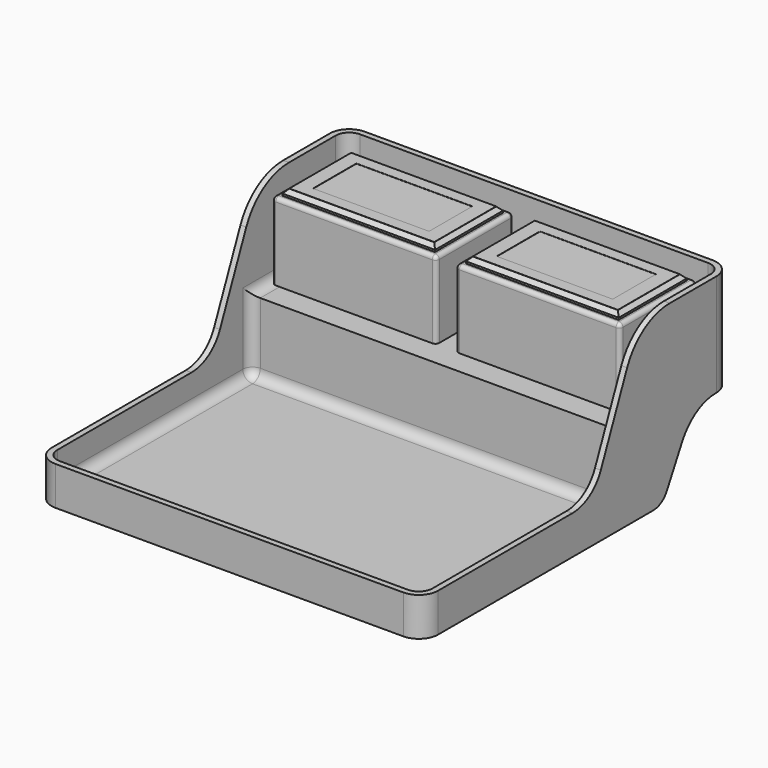
from build123d import *

# Parameters (mm, degrees)
F1_DEPTH   = 90
F3_DEPTH   = 80
F4_R       = 5
F7_DEPTH   = 50
F8_R       = 5
F12_DEPTH  = 37
F13_R      = 5
F16_DEPTH  = 105
F18_DEPTH  = 105
F20_W      = 85
F20_H      = 50
F21_DEPTH  = 40
F22_R      = 2
F22_2_R    = 2
F24_W      = 78.9999971262
F24_H      = 44
F25_DEPTH  = 3
F24_W_2    = 79
F26_SIZE   = 2
F26_2_SIZE = 2
F28_W      = 75
F28_H      = 40
F29_DEPTH  = 0.5
F30_W      = 60
F30_H      = 28
F31_DEPTH  = 1


with BuildPart() as f1:
    # F0 (on Top) → F1 (new body)
    with BuildSketch(Plane.XY):
        with BuildLine():
            Line((90, 100), (-90, 100))
            ThreePointArc((-90, 100), (-97.0710678119, 97.0710678119), (-100, 90))
            Line((-100, 90), (-100, -90))
            ThreePointArc((-100, -90), (-97.0710678119, -97.0710678119), (-90, -100))
            Line((-90, -100), (90, -100))
            ThreePointArc((90, -100), (97.0710678119, -97.0710678119), (100, -90))
            Line((100, -90), (100, 90))
            ThreePointArc((100, 90), (97.0710678119, 97.0710678119), (90, 100))
        make_face()
    extrude(amount=F1_DEPTH)


with BuildPart() as f3:
    # F2 (on Top) → F3 (new body)
    with BuildSketch(Plane.XY):
        with BuildLine():
            Line((97, 35), (-97, 35))
            Line((-97, 35), (-97, -90))
            ThreePointArc((-97, -90), (-94.9497474683, -94.9497474683), (-90, -97))
            Line((-90, -97), (90, -97))
            ThreePointArc((90, -97), (94.9497474683, -94.9497474683), (97, -90))
            Line((97, -90), (97, 35))
        make_face()
    extrude(amount=F3_DEPTH)

    # F4
    f4_edges = [f3.edges().sort_by_distance(p)[0] for p in [
        (-97, -27.5, 0),
        (-94.949747, -94.949747, 0),
        (0, -97, 0),
        (94.949747, -94.949747, 0),
        (97, -27.5, 0),
        (0, 35, 0),
        (-97, 35, 40),
        (97, 35, 40),
    ]]
    fillet(f4_edges, radius=F4_R)


with BuildPart() as f3_1:
    # F5: moved
    add(f3.part.moved(Location((0, 0, 3))))


with BuildPart() as f7:
    # F6 (on Top) → F7 (new body)
    with BuildSketch(Plane.XY):
        with BuildLine():
            Line((-97, 90), (-97, 30))
            Line((-97, 30), (97, 30))
            Line((97, 30), (97, 90))
            ThreePointArc((97, 90), (94.9497474683, 94.9497474683), (90, 97))
            Line((90, 97), (-90, 97))
            ThreePointArc((-90, 97), (-94.9497474683, 94.9497474683), (-97, 90))
        make_face()
    extrude(amount=F7_DEPTH)

    # F8
    f8_edges = [f7.edges().sort_by_distance(p)[0] for p in [
        (-97, 60, 0),
        (-94.949747, 94.949747, 0),
        (0, 97, 0),
        (94.949747, 94.949747, 0),
        (97, 60, 0),
    ]]
    fillet(f8_edges, radius=F8_R)


with BuildPart() as f7_1:
    # F9: moved
    add(f7.part.moved(Location((0, 0, 40))))


with BuildPart() as f1_1:
    add(f1.part)

    # F10: cut F7, F3
    add(f7_1.part, mode=Mode.SUBTRACT)
    add(f3_1.part, mode=Mode.SUBTRACT)


with BuildPart() as f12:
    # F11 (on Top) → F12 (new body)
    with BuildSketch(Plane.XY):
        with BuildLine():
            Line((97, 105), (-97, 105))
            Line((-97, 105), (-97, 48))
            ThreePointArc((-97, 48), (-95.5355339059, 44.4644660941), (-92, 43))
            Line((-92, 43), (92, 43))
            ThreePointArc((92, 43), (95.5355339059, 44.4644660941), (97, 48))
            Line((97, 48), (97, 105))
        make_face()
    extrude(amount=F12_DEPTH)

    # F13
    f13_edges = [f12.edges().sort_by_distance(p)[0] for p in [
        (0, 43, 37),
        (95.535534, 44.464466, 37),
        (97, 76.5, 37),
        (-95.535534, 44.464466, 37),
        (-97, 76.5, 37),
    ]]
    fillet(f13_edges, radius=F13_R)


with BuildPart() as f1_2:
    add(f1_1.part)

    # F14: cut F12
    add(f12.part, mode=Mode.SUBTRACT)


with BuildPart() as f16:
    # F15 (on Right) → F16 (new body, symmetric)
    with BuildSketch(Plane.YZ):
        with BuildLine():
            Line((105, -10), (105, 37))
            Line((105, 37), (89.9050551957, 37))
            ThreePointArc((89.9050551957, 37), (77.1026754653, 33.47321758), (67.9123923563, 23.8879258591))
            Line((67.9123923563, 23.8879258591), (57.8350430575, 5.2448296563))
            ThreePointArc((57.8350430575, 5.2448296563), (54.1589298139, 1.410712968), (49.0379779217, 0))
            Line((49.0379779217, 0), (25.0807348639, 0))
            Line((25.0807348639, 0), (25.0807348639, -10))
            Line((25.0807348639, -10), (105, -10))
        make_face()
    extrude(amount=F16_DEPTH, both=True)


with BuildPart() as f18:
    # F17 (on Right) → F18 (new body, symmetric)
    with BuildSketch(Plane.YZ):
        with BuildLine():
            Line((-105, 100), (-105, 20))
            Line((-105, 20), (-3.1879231596, 20))
            ThreePointArc((-3.1879231596, 20), (7.8218970153, 23.3031781552), (15.1949774408, 32.1216140284))
            Line((15.1949774407, 32.1216140284), (32.2075338389, 71.8175789574))
            ThreePointArc((32.2075338389, 71.8175789574), (43.267154477, 85.0452327671), (59.7818847394, 90))
            Line((59.7818847394, 90), (80, 90))
            Line((80, 90), (80, 100))
            Line((80, 100), (-105, 100))
        make_face()
    extrude(amount=F18_DEPTH, both=True)


with BuildPart() as f1_3:
    add(f1_2.part)

    # F19: cut F16, F18
    add(f16.part, mode=Mode.SUBTRACT)
    add(f18.part, mode=Mode.SUBTRACT)


with BuildPart() as f21:
    # F20 (on Top) → F21 (new body)
    with BuildSketch(Plane.XY):
        with Locations((-47.5, 65)):
            Rectangle(F20_W, F20_H)
    extrude(amount=F21_DEPTH)

    # F22
    f22_edges = [f21.edges().sort_by_distance(p)[0] for p in [
        (-90, 40, 20),
        (-5, 40, 20),
        (-90, 90, 20),
        (-5, 90, 20),
        (-47.5, 90, 40),
        (-90, 65, 40),
        (-5, 65, 40),
        (-47.5, 40, 40),
    ]]
    fillet(f22_edges, radius=F22_R)


with BuildPart() as f21b:
    # F20 (on Top) → F21, piece 2 (new body)
    with BuildSketch(Plane.XY):
        with Locations((47.5, 65)):
            Rectangle(F20_W, F20_H)
    extrude(amount=F21_DEPTH)

    # F22#2
    f22_2_edges = [f21b.edges().sort_by_distance(p)[0] for p in [
        (5, 40, 20),
        (90, 40, 20),
        (5, 90, 20),
        (90, 90, 20),
        (5, 65, 40),
        (90, 65, 40),
        (47.5, 40, 40),
        (47.5, 90, 40),
    ]]
    fillet(f22_2_edges, radius=F22_2_R)


with BuildPart() as f21_1:
    # F23: moved
    add(f21.part.moved(Location((0, 0, 45))))


with BuildPart() as f21b_1:
    # F23: moved
    add(f21b.part.moved(Location((0, 0, 45))))


with BuildPart() as f25:
    # F24 (on Top) → F25 (new body)
    with BuildSketch(Plane.XY):
        with Locations((47.4999985631, 65)):
            Rectangle(F24_W, F24_H)
    extrude(amount=F25_DEPTH)

    # F26#2
    f26_2_edges = [f25.edges().sort_by_distance(p)[0] for p in [
        (8, 65, 3),
        (47.499999, 87, 3),
        (47.499999, 43, 3),
        (86.999997, 65, 3),
    ]]
    chamfer(f26_2_edges, length=F26_2_SIZE)


with BuildPart() as f25b:
    # F24 (on Top) → F25, piece 2 (new body)
    with BuildSketch(Plane.XY):
        with Locations((-47.5, 65)):
            Rectangle(F24_W_2, F24_H)
    extrude(amount=F25_DEPTH)

    # F26
    f26_edges = [f25b.edges().sort_by_distance(p)[0] for p in [
        (-87, 65, 3),
        (-47.5, 43, 3),
        (-8, 65, 3),
        (-47.5, 87, 3),
    ]]
    chamfer(f26_edges, length=F26_SIZE)


with BuildPart() as f25b_1:
    # F27: moved
    add(f25b.part.moved(Location((0, 0, 85))))


with BuildPart() as f25_1:
    # F27: moved
    add(f25.part.moved(Location((0, 0, 85))))


with BuildPart() as f29:
    # F28 (on face) → F29 (new body)
    with BuildSketch(Plane.XY):
        with Locations((47.5, 65)):
            Rectangle(F28_W, F28_H)
    extrude(amount=F29_DEPTH)


with BuildPart() as f29b:
    # F28 (on face) → F29, piece 2 (new body)
    with BuildSketch(Plane.XY):
        with Locations((-47.5, 65)):
            Rectangle(F28_W, F28_H)
    extrude(amount=F29_DEPTH)


with BuildPart() as f31:
    # F30 (on face) → F31 (new body)
    with BuildSketch(Plane.XY):
        with Locations((-47.5, 65)):
            Rectangle(F30_W, F30_H)
    extrude(amount=F31_DEPTH)


with BuildPart() as f31b:
    # F30 (on face) → F31, piece 2 (new body)
    with BuildSketch(Plane.XY):
        with Locations((47.5, 65)):
            Rectangle(F30_W, F30_H)
    extrude(amount=F31_DEPTH)


with BuildPart() as f29b_1:
    add(f29b.part)

    # F32: cut F31, F31b
    add(f31.part, mode=Mode.SUBTRACT)
    add(f31b.part, mode=Mode.SUBTRACT)


with BuildPart() as f29_1:
    add(f29.part)

    # F32: cut F31, F31b
    add(f31.part, mode=Mode.SUBTRACT)
    add(f31b.part, mode=Mode.SUBTRACT)


with BuildPart() as f29b_2:
    # F33: moved
    add(f29b_1.part.moved(Location((0, 0, 87.6))))


with BuildPart() as f29_2:
    # F33: moved
    add(f29_1.part.moved(Location((0, 0, 87.6))))


solid = Compound([f1_3.part, f21_1.part, f21b_1.part, f25b_1.part, f25_1.part, f29b_2.part, f29_2.part])
